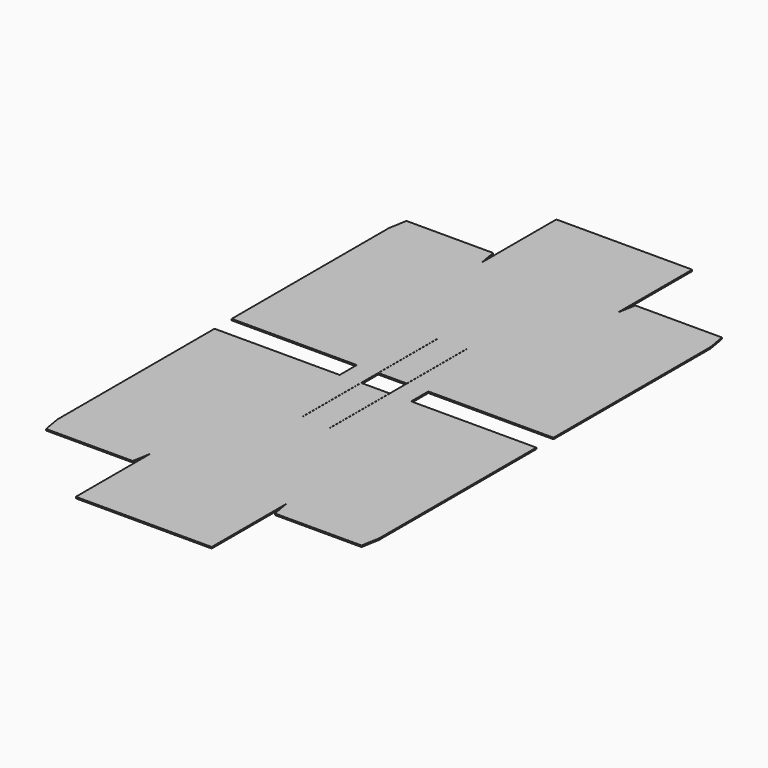
from build123d import *

# Parameters (mm, degrees)
F1_DEPTH = 2


with BuildPart() as f1:
    # F0 (on Top) → F1 (new body)
    with BuildSketch(Plane.XY):
        Polygon((-225, 15), (-95, 15), (-50.1, 15), (-50.1, 120), (-49.9, 120), (-49.9, 15), (-50, 15), (-50, 0), (-50, -15), (-49.9, -15), (-49.9, -120), (-50.1, -120), (-50.1, -15), (-95, -15), (-225, -15), (-225, -290), (-95, -290), (-95, -420), (0, -420), (95, -420), (95, -290), (225, -290), (225, -15), (95, -15), (50.1, -15), (50.1, -120), (49.9, -120), (49.9, -15), (50, -15), (50, 0), (50, 15), (49.9, 15), (49.9, 120), (50.1, 120), (50.1, 15), (95, 15), (225, 15), (225, 290), (95, 290), (95, 420), (0, 420), (-95, 420), (-95, 290), (-225, 290), align=None)
        Polygon((-19.9, 15), (0, 15), (19.9, 15), (19.9, 120), (20.1, 120), (20.1, 15), (20, 15), (20, 0), (20, -15), (20.1, -15), (20.1, -120), (19.9, -120), (19.9, -15), (0, -15), (-19.9, -15), (-19.9, -120), (-20.1, -120), (-20.1, -15), (-20, -15), (-20, 0), (-20, 15), (-20.1, 15), (-20.1, 120), (-19.9, 120), align=None, mode=Mode.SUBTRACT)
        Polygon((-50.1, 120), (-50.1, 15), (-50, 15), (-49.9, 15), (-49.9, 120), align=None)
        Polygon((-220.591825, 315), (-225, 290), (-95, 290), (-99.408175, 315), align=None)
        Polygon((-49.9, -15), (-50, -15), (-50.1, -15), (-50.1, -120), (-49.9, -120), align=None)
        Polygon((99.408175, 315), (95, 290), (225, 290), (220.591825, 315), align=None)
        Polygon((-95, -290), (-225, -290), (-220.591825, -315), (-99.408175, -315), align=None)
        Polygon((50, 15), (50.1, 15), (50.1, 120), (49.9, 120), (49.9, 15), align=None)
        Polygon((225, -290), (95, -290), (99.408175, -315), (220.591825, -315), align=None)
        Polygon((50.1, -15), (50, -15), (49.9, -15), (49.9, -120), (50.1, -120), align=None)
    extrude(amount=F1_DEPTH)


solid = f1.part
